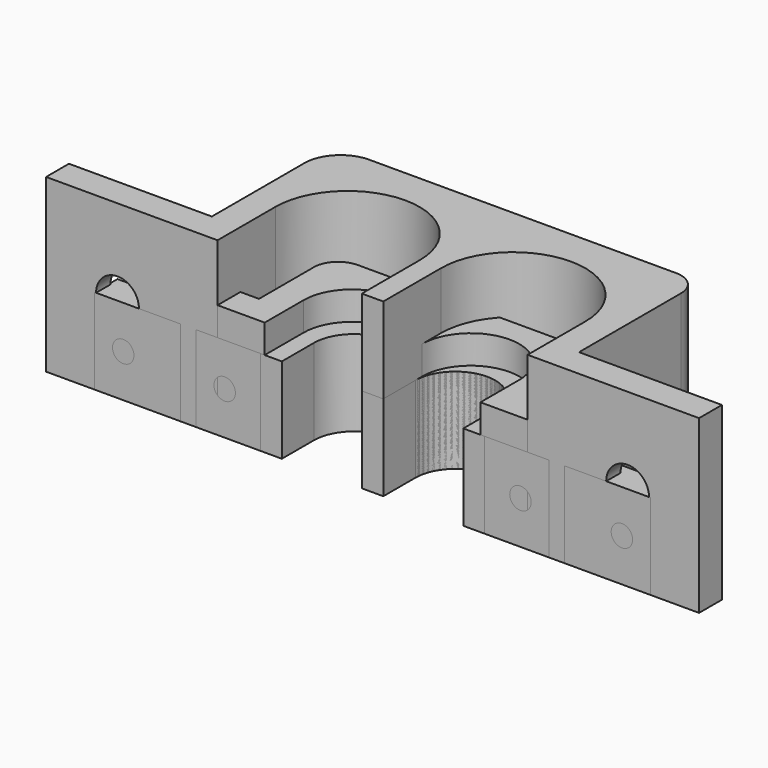
from build123d import *

# Parameters (mm, degrees)
PAD_DEPTH       = 8
SKETCH001_R     = 1
POCKET_DEPTH    = 2
CHAMFER_SIZE    = 0.5
PAD001_DEPTH    = 12
SKETCH003_R     = 1.5
POCKET001_DEPTH = 3
CHAMFER001_SIZE = 0.75
PAD002_DEPTH    = 6
SKETCH005_R     = 0.75
POCKET002_DEPTH = 2
CHAMFER002_SIZE = 0.5
PAD003_DEPTH    = 6
SKETCH009_R     = 0.75
POCKET003_DEPTH = 2
CHAMFER003_SIZE = 0.375


with BuildPart() as obj1:
    # Sketch → Pad (new body)
    with BuildSketch(Plane.XY):
        with BuildLine():
            Line((-15.55, 0), (-7.55, 0))
            Line((-7.55, 0), (-7.55, 3.4))
            ThreePointArc((-0.75, 3.399992), (-4.149996, 6.8), (-7.55, 3.4))
            Line((-0.75, 3.399992), (-0.75, 0))
            Line((-0.75, 0), (0.75, 0))
            Line((0.75, 0), (0.75, 3.4))
            ThreePointArc((7.55, 3.4), (4.15, 6.8), (0.75, 3.4))
            Line((7.55, 3.4), (7.55, 0))
            Line((7.55, 0), (15.55, 0))
            Line((15.55, 0), (15.55, 2))
            Line((15.55, 2), (9.55, 2))
            Line((9.55, 2), (9.55, 6.8))
            ThreePointArc((9.55, 6.8), (9.052082, 8.002082), (7.85, 8.5))
            Line((7.85, 8.5), (-7.85, 8.5))
            ThreePointArc((-7.85, 8.5), (-9.052082, 8.002082), (-9.55, 6.8))
            Line((-9.55, 6.8), (-9.55, 2))
            Line((-9.55, 2), (-15.55, 2))
            Line((-15.55, 2), (-15.55, 0))
        make_face()
    extrude(amount=PAD_DEPTH)

    # Sketch001 (on Face4 of Pad) → Pocket (cut)
    with BuildSketch(Plane(origin=(0, 2, 0), x_dir=(-1, 0, 0), z_dir=(0, 1, 0))):
        with Locations((-12.55, 4)):
            Circle(SKETCH001_R)
        with Locations((12.55, 4)):
            Circle(SKETCH001_R)
    extrude(amount=-POCKET_DEPTH, mode=Mode.SUBTRACT)

    # Chamfer
    chamfer_edges = [obj1.edges().sort_by_distance(p)[0] for p in [
        (11.55, 1, 4),
        (-11.55, 2, 4),
        (13.55, 2, 4),
    ]]
    chamfer(chamfer_edges, length=CHAMFER_SIZE)


with BuildPart() as obj2:
    # Sketch002 → Pad001 (new body)
    with BuildSketch(Plane.XY):
        with BuildLine():
            Line((-22.85, 0), (-10.85, 0))
            Line((-10.85, 0), (-10.85, 5.05))
            ThreePointArc((-0.75, 5.049984), (-5.799992, 10.1), (-10.85, 5.05))
            Line((-0.75, 5.049984), (-0.75, 0))
            Line((-0.75, 0), (0.75, 0))
            Line((0.75, 0), (0.75, 5.05))
            ThreePointArc((10.85, 5.05), (5.8, 10.1), (0.75, 5.05))
            Line((10.85, 5.05), (10.85, 0))
            Line((10.85, 0), (22.85, 0))
            Line((22.85, 0), (22.85, 2))
            Line((22.85, 2), (12.85, 2))
            Line((12.85, 2), (12.85, 10.925))
            ThreePointArc((12.85, 10.925), (12.352082, 12.127082), (11.15, 12.625))
            Line((11.15, 12.625), (-10.325, 12.625))
            ThreePointArc((-10.325, 12.625), (-12.110445, 11.885445), (-12.85, 10.1))
            Line((-12.85, 10.1), (-12.85, 2))
            Line((-12.85, 2), (-22.85, 2))
            Line((-22.85, 2), (-22.85, 0))
        make_face()
    extrude(amount=PAD001_DEPTH)

    # Sketch003 (on Face4 of Pad001) → Pocket001 (cut)
    with BuildSketch(Plane(origin=(0, 2, 0), x_dir=(-1, 0, 0), z_dir=(0, 1, 0))):
        with Locations((-17.85, 6)):
            Circle(SKETCH003_R)
        with Locations((17.85, 6)):
            Circle(SKETCH003_R)
    extrude(amount=-POCKET001_DEPTH, mode=Mode.SUBTRACT)

    # Chamfer001
    chamfer001_edges = [obj2.edges().sort_by_distance(p)[0] for p in [
        (16.35, 1, 6),
        (-16.35, 2, 6),
        (19.35, 2, 6),
    ]]
    chamfer(chamfer001_edges, length=CHAMFER001_SIZE)


with BuildPart() as obj3:
    # Sketch004 → Pad002 (new body)
    with BuildSketch(Plane.XY):
        with BuildLine():
            Line((-12.35, 0), (-6.35, 0))
            Line((-6.35, 0), (-6.35, 2.8))
            ThreePointArc((-0.75, 2.8), (-3.55, 5.6), (-6.35, 2.8))
            Line((-0.75, 2.8), (-0.75, 0))
            Line((-0.75, 0), (0.75, 0))
            Line((0.75, 0), (0.75, 2.800002))
            ThreePointArc((6.35, 2.8), (3.550001, 5.6), (0.75, 2.800002))
            Line((6.35, 2.8), (6.35, 0))
            Line((6.35, 0), (12.35, 0))
            Line((12.35, 0), (12.35, 2))
            Line((12.35, 2), (8.35, 2))
            Line((8.35, 2), (8.35, 5.6))
            ThreePointArc((8.35, 5.6), (7.939949, 6.589949), (6.95, 7))
            Line((6.95, 7), (-6.95, 7))
            ThreePointArc((-6.95, 7), (-7.939949, 6.589949), (-8.35, 5.6))
            Line((-8.35, 5.6), (-8.35, 2))
            Line((-8.35, 2), (-12.35, 2))
            Line((-12.35, 2), (-12.35, 0))
        make_face()
    extrude(amount=PAD002_DEPTH)

    # Sketch005 (on Face4 of Pad002) → Pocket002 (cut)
    with BuildSketch(Plane(origin=(0, 2, 0), x_dir=(-1, 0, 0), z_dir=(0, 1, 0))):
        with Locations((-10.35, 3)):
            Circle(SKETCH005_R)
        with Locations((10.35, 3)):
            Circle(SKETCH005_R)
    extrude(amount=-POCKET002_DEPTH, mode=Mode.SUBTRACT)

    # Chamfer002
    chamfer002_edges = [obj3.edges().sort_by_distance(p)[0] for p in [
        (9.6, 1, 3),
        (-9.6, 2, 3),
        (11.1, 2, 3),
    ]]
    chamfer(chamfer002_edges, length=CHAMFER002_SIZE)


with BuildPart() as obj4:
    # Sketch008 → Pad003 (new body)
    with BuildSketch(Plane.XY):
        with BuildLine():
            Line((19.45, 0), (13.45, 0))
            Line((13.45, 0), (13.45, 2.8))
            ThreePointArc((13.45, 2.8), (10.65, 5.6), (7.85, 2.8))
            Line((7.85, 2.8), (7.85, 0))
            Line((7.85, 0), (6.35, 0))
            Line((6.35, 0), (6.35, 2.8))
            ThreePointArc((6.35, 2.8), (3.55, 5.6), (0.75, 2.8))
            Line((0.75, 2.8), (0.75, 0))
            Line((0.75, 0), (0, 0))
            Line((-0.75, 0), (0, 0))
            Line((-0.75, 2.8), (-0.75, 0))
            ThreePointArc((-0.75, 2.8), (-3.55, 5.6), (-6.35, 2.8))
            Line((-6.35, 0), (-6.35, 2.8))
            Line((-7.85, 0), (-6.35, 0))
            Line((-7.85, 2.8), (-7.85, 0))
            ThreePointArc((-7.85, 2.8), (-10.65, 5.6), (-13.45, 2.8))
            Line((-13.45, 0), (-13.45, 2.8))
            Line((-19.45, 0), (-13.45, 0))
            Line((-19.45, 2), (-19.45, 0))
            Line((-15.45, 2), (-19.45, 2))
            Line((-15.45, 5.6), (-15.45, 2))
            ThreePointArc((-14.05, 7), (-15.039949, 6.589949), (-15.45, 5.6))
            Line((-14.05, 7), (0, 7))
            Line((14.05, 7), (0, 7))
            ThreePointArc((15.45, 5.6), (15.039949, 6.589949), (14.05, 7))
            Line((15.45, 5.6), (15.45, 2))
            Line((15.45, 2), (19.45, 2))
            Line((19.45, 2), (19.45, 0))
        make_face()
    extrude(amount=PAD003_DEPTH)

    # Sketch009 (on Face2 of Pad003) → Pocket003 (cut)
    with BuildSketch(Plane(origin=(0, 2, 0), x_dir=(-1, 0, 0), z_dir=(0, 1, 0))):
        with Locations((-17.45, 3)):
            Circle(SKETCH009_R)
        with Locations((17.45, 3)):
            Circle(SKETCH009_R)
    extrude(amount=-POCKET003_DEPTH, mode=Mode.SUBTRACT)

    # Chamfer003
    chamfer003_edges = [obj4.edges().sort_by_distance(p)[0] for p in [
        (18.2, 2, 3),
        (-16.7, 2, 3),
    ]]
    chamfer(chamfer003_edges, length=CHAMFER003_SIZE)


solid = Compound([obj1.part, obj2.part, obj3.part, obj4.part])
